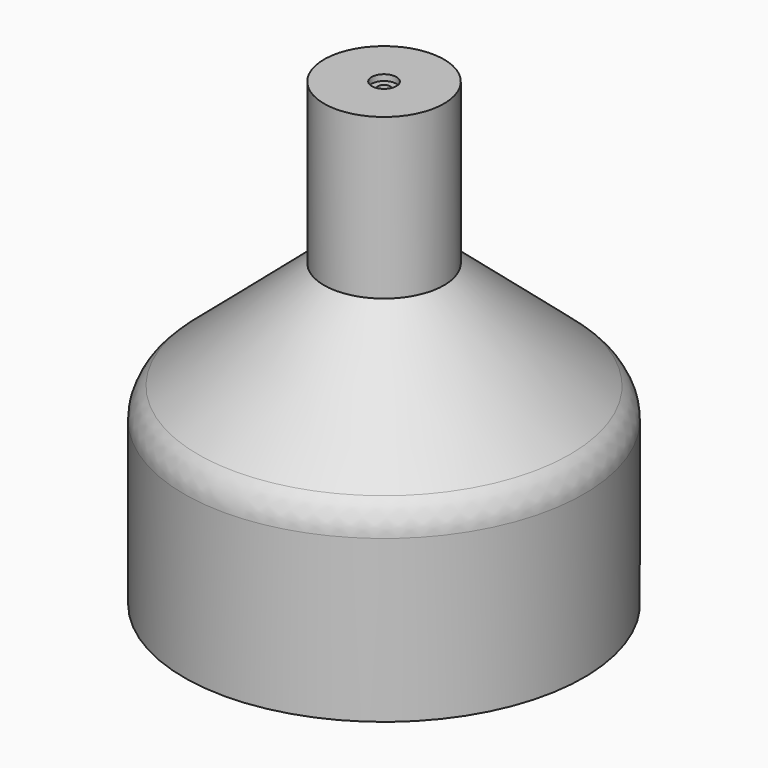
from build123d import *

# Parameters (mm, degrees)
F2_R = 10


with BuildPart() as f1:
    # F0 (on Right) → F1 (revolve)
    with BuildSketch(Plane.YZ):
        Polygon((-50, 15), (-48.5, 15), (-48.5, 59.310098), (-13.5, 89.310098), (-13.5, 122.471504), (-1.1, 122.471504), (-1.1, 127.54637), (-1.5, 127.54637), (-1.5, 128.5), (-3.1, 128.5), (-3.1, 130), (-15, 130), (-15, 90), (-50, 60), align=None)
    revolve(axis=Axis((0, 0, 8.976309), (0, 0, 1)))

    # F2
    f2_edges = [f1.edges().sort_by_distance(p)[0] for p in [
        (0, 50, 60),
    ]]
    fillet(f2_edges, radius=F2_R)


solid = f1.part
